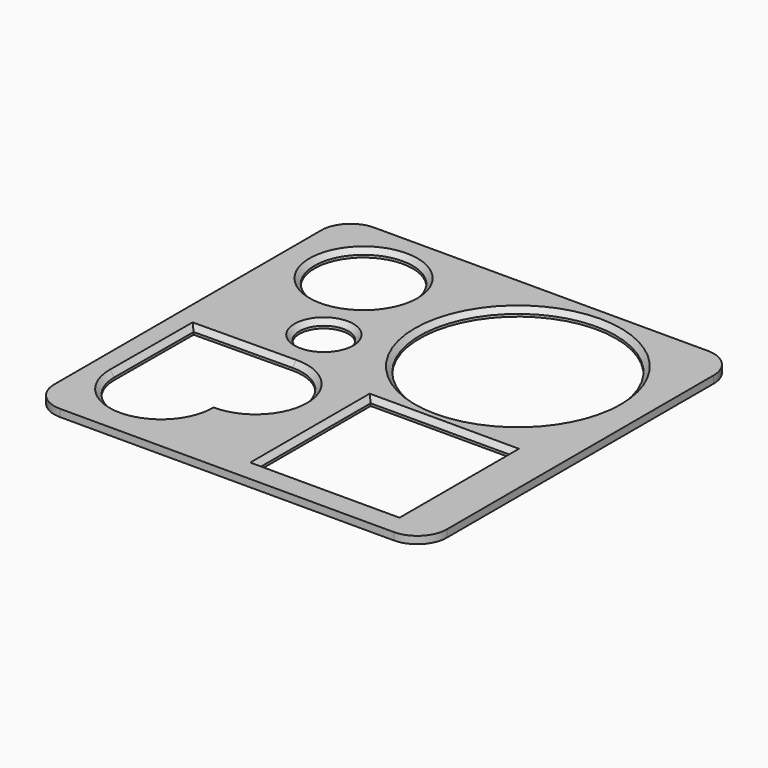
from build123d import *

# Parameters (mm, degrees)
SKETCH_W     = 80
SKETCH_H     = 80
SKETCH_R     = 5
SKETCH_R_2   = 10
SKETCH_R_3   = 20
SKETCH_W_2   = 28.426124
SKETCH_H_2   = 28.426124
PAD_DEPTH    = 1.5
CHAMFER_SIZE = 1
FILLET_R     = 6


with BuildPart() as part:
    # Sketch → Pad (new body)
    with BuildSketch(Plane.XY):
        with Locations((40, -40)):
            Rectangle(SKETCH_W, SKETCH_H)
        with Locations((22.808456, -33.825606)):
            Circle(SKETCH_R, mode=Mode.SUBTRACT)
        with Locations((15.587115, -14.692374)):
            Circle(SKETCH_R_2, mode=Mode.SUBTRACT)
        with Locations((53.731579, -23.05761)):
            Circle(SKETCH_R_3, mode=Mode.SUBTRACT)
        with BuildLine():
            Line((4.836625, -44.554906), (24.835676, -44.360099))
            ThreePointArc((23.667351, -63.288176), (34.416474, -54.451564), (24.835676, -44.360099))
            ThreePointArc((4.745591, -64.554699), (14.886633, -74.083006), (23.667351, -63.288176))
            Line((4.836625, -44.554906), (4.745591, -64.554699))
        make_face(mode=Mode.SUBTRACT)
        with Locations((56.404202, -60.349873)):
            Rectangle(SKETCH_W_2, SKETCH_H_2, mode=Mode.SUBTRACT)
    extrude(amount=PAD_DEPTH)

    # Chamfer
    chamfer_edges = [part.edges().sort_by_distance(p)[0] for p in [
        (42.19114, -60.349873, 1.5),
        (56.404202, -46.136811, 1.5),
        (70.617264, -60.349873, 1.5),
        (56.404202, -74.562935, 1.5),
        (4.791108, -54.554802, 1.5),
        (14.83615, -44.457503, 1.5),
        (14.886633, -74.083006, 1.5),
        (34.416474, -54.451564, 1.5),
        (33.731579, -23.05761, 1.5),
        (17.808456, -33.825606, 1.5),
        (5.587115, -14.692374, 1.5),
    ]]
    chamfer(chamfer_edges, length=CHAMFER_SIZE)

    # Fillet
    fillet_edges = [part.edges().sort_by_distance(p)[0] for p in [
        (80, 0, 0.75),
        (80, -80, 0.75),
        (0, -80, 0.75),
        (0, 0, 0.75),
    ]]
    fillet(fillet_edges, radius=FILLET_R)


solid = part.part
